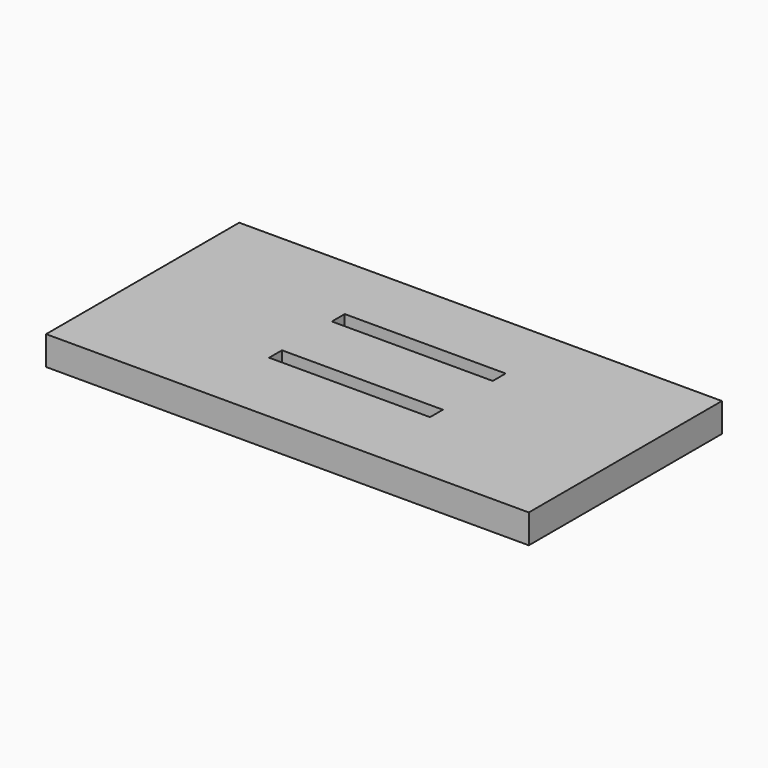
from build123d import *

# Parameters (mm, degrees)
F0_W     = 300
F0_H     = 150
F1_DEPTH = 18
F2_W     = 100
F2_H     = 10
F3_DEPTH = 18


with BuildPart() as f1:
    # F0 (on Top) → F1 (new body)
    with BuildSketch(Plane.XY):
        Rectangle(F0_W, F0_H)
    extrude(amount=F1_DEPTH)

    # F2 (on face) → F3 (cut)
    with BuildSketch(Plane.XY.offset(18)):
        with Locations((0, -21.75)):
            Rectangle(F2_W, F2_H)
        with Locations((0, 27)):
            Rectangle(F2_W, F2_H)
    extrude(amount=-F3_DEPTH, mode=Mode.SUBTRACT)


solid = f1.part
